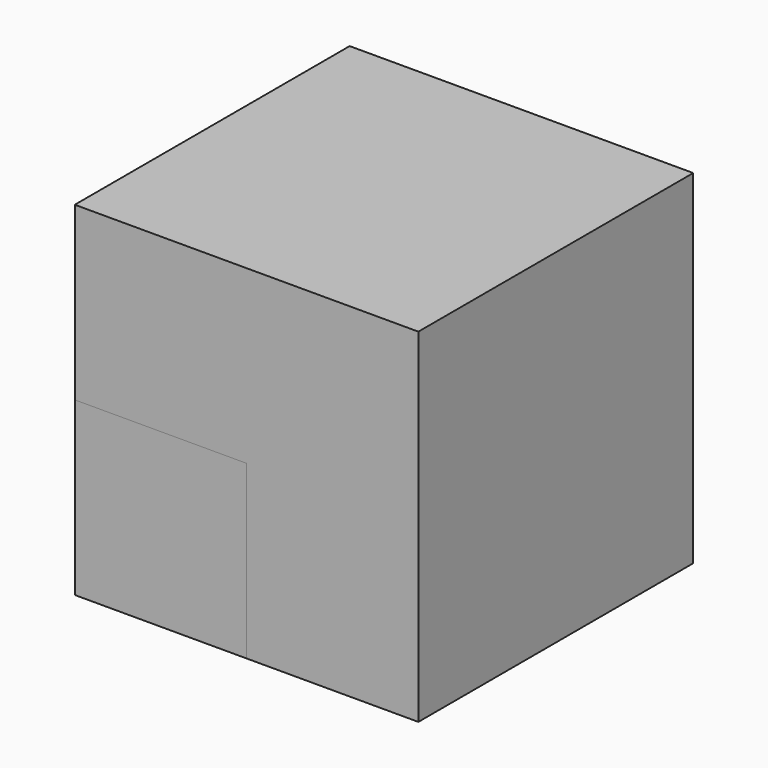
from build123d import *

# Parameters (mm, degrees)
BOX_W        = 10
BOX_H        = 10
BOX_DEPTH    = 10
BOX001_W     = 5
BOX001_H     = 5
BOX001_DEPTH = 5


with BuildPart() as cube:
    # Box → Box (new body)
    with BuildSketch(Plane.XY):
        with Locations((5, 5)):
            Rectangle(BOX_W, BOX_H)
    extrude(amount=BOX_DEPTH)


with BuildPart() as cube001:
    # Box001 → Box001 (new body)
    with BuildSketch(Plane.XY):
        with Locations((2.5, 2.5)):
            Rectangle(BOX001_W, BOX001_H)
    extrude(amount=BOX001_DEPTH)


solid = Compound([cube.part, cube001.part])
